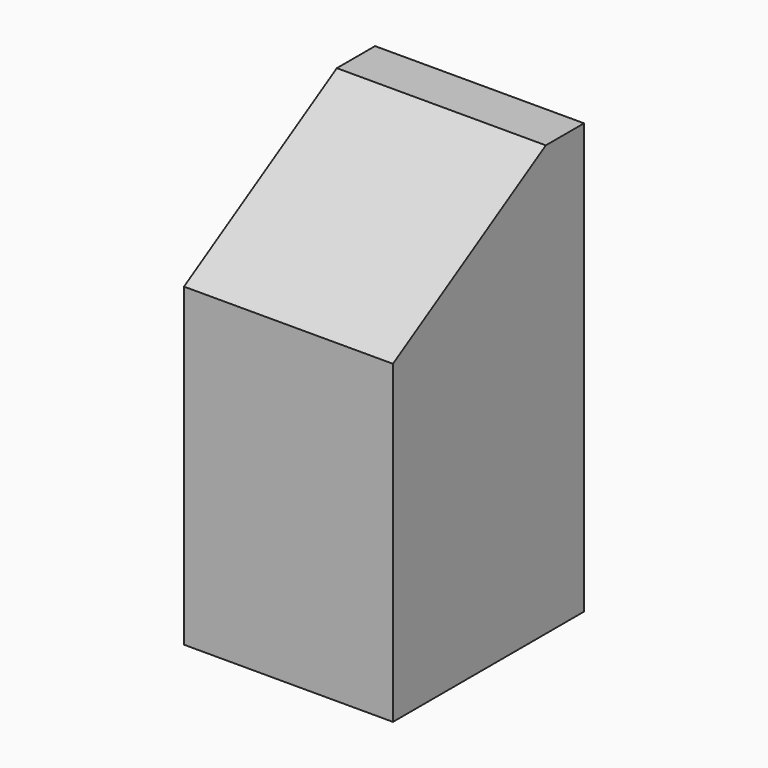
from build123d import *

# Parameters (mm, degrees)
SKETCH030_W     = 16
SKETCH030_H     = 16
PAD016_DEPTH    = 28.8
POCKET014_DEPTH = 16
SKETCH114_W     = 1
SKETCH114_H     = 16
POCKET030_DEPTH = 30
PAD135_DEPTH    = 14


with BuildPart() as part:
    # Sketch030 (on Face52 of Binder012) → Pad016 (new body)
    with BuildSketch(Plane.XY.offset(-28.8)):
        with Locations((64, -8)):
            Rectangle(SKETCH030_W, SKETCH030_H)
    extrude(amount=PAD016_DEPTH)

    # Sketch031 (on Face2 of Pad016) → Pocket014 (cut)
    with BuildSketch(Plane.YZ.offset(72)):
        Polygon((-16, 0), (-16, -9.6), (0, 0), align=None)
    extrude(amount=-POCKET014_DEPTH, mode=Mode.SUBTRACT)

    # Sketch114 (on Face2 of Pocket014) → Pocket030 (cut)
    with BuildSketch(Plane(origin=(0, 0, -28.8), x_dir=(1, 0, 0), z_dir=(0, 0, -1))):
        with Locations((56.5, 8)):
            Rectangle(SKETCH114_W, SKETCH114_H)
        with Locations((71.5, 8)):
            Rectangle(SKETCH114_W, SKETCH114_H)
    extrude(amount=-POCKET030_DEPTH, mode=Mode.SUBTRACT)

    # Sketch135 (on Face3 of Pocket030) → Pad135 (join)
    with BuildSketch(Plane.YZ.offset(71)):
        Polygon((0, 0), (-3.2, 0), (-16, -7.68), (-16, -10.88), (-3.2, -3.2), (0, -3.2), align=None)
    extrude(amount=-PAD135_DEPTH)


solid = part.part
